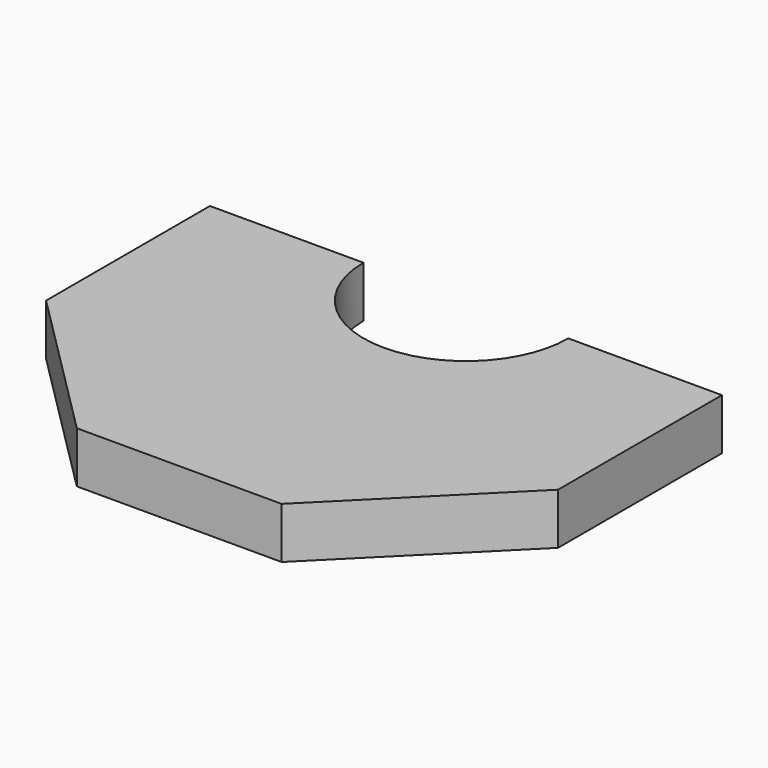
from build123d import *

# Parameters (mm, degrees)
F1_DEPTH = 5


with BuildPart() as f1:
    # F0 (on Top) → F1 (new body)
    with BuildSketch(Plane.XY):
        with BuildLine():
            Line((-10, -17.5), (10, -17.5))
            Line((10, -17.5), (25, -2.5))
            Line((25, -2.5), (25, 17.5))
            Line((25, 17.5), (10, 17.5))
            ThreePointArc((10, 17.5), (0, 7.5), (-10, 17.5))
            Line((-10, 17.5), (-25, 17.5))
            Line((-25, 17.5), (-25, -2.5))
            Line((-25, -2.5), (-10, -17.5))
        make_face()
    extrude(amount=F1_DEPTH)


solid = f1.part
